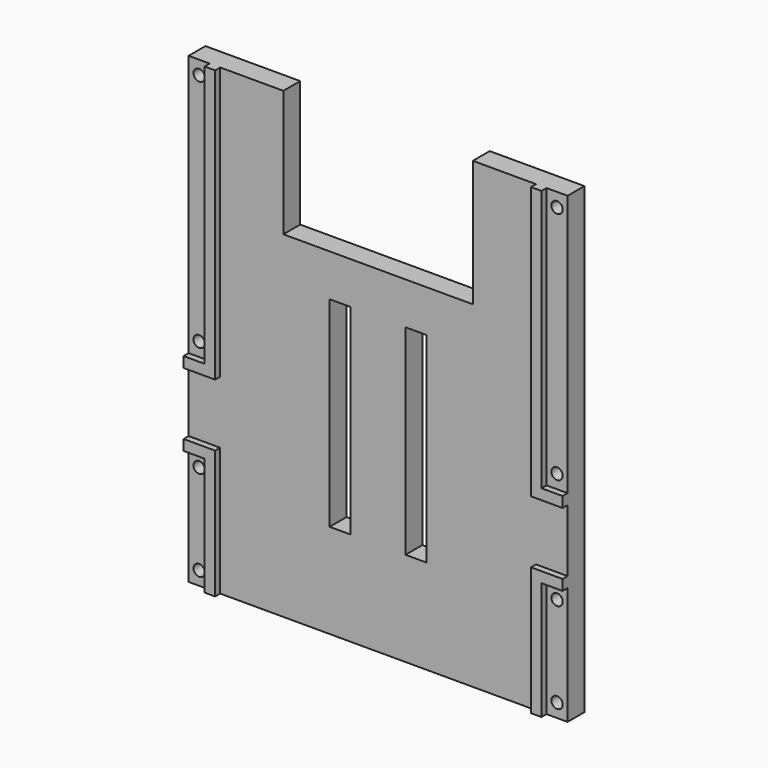
from build123d import *

# Parameters (mm, degrees)
F0_W     = 6.35
F0_H     = 78.9432
F0_R     = 1.7145
F0_H_2   = 35.56
F1_DEPTH = 6.35
F2_DEPTH = 8.255


with BuildPart() as f1:
    # F0 (on Front) → F1 (new body)
    with BuildSketch(Plane.XZ):
        with Locations((-53.975, 30.3784)):
            Rectangle(F0_W, F0_H)
        with Locations((-53.975, -4.9657)):
            Circle(F0_R, mode=Mode.SUBTRACT)
        with Locations((-53.975, 65.7225)):
            Circle(F0_R, mode=Mode.SUBTRACT)
        with Locations((-53.975, -52.07)):
            Rectangle(F0_W, F0_H_2)
        with Locations((-53.975, -65.7225)):
            Circle(F0_R, mode=Mode.SUBTRACT)
        with Locations((-53.975, -38.4175)):
            Circle(F0_R, mode=Mode.SUBTRACT)
        with Locations((53.975, -52.07)):
            Rectangle(F0_W, F0_H_2)
        with Locations((53.975, -65.7225)):
            Circle(F0_R, mode=Mode.SUBTRACT)
        with Locations((53.975, -38.4175)):
            Circle(F0_R, mode=Mode.SUBTRACT)
        with Locations((53.975, 30.3784)):
            Rectangle(F0_W, F0_H)
        with Locations((53.975, -4.9657)):
            Circle(F0_R, mode=Mode.SUBTRACT)
        with Locations((53.975, 65.7225)):
            Circle(F0_R, mode=Mode.SUBTRACT)
        Polygon((-47.625, -69.85), (47.625, -69.85), (47.625, -31.115), (57.15, -31.115), (57.15, -12.2682), (47.625, -12.2682), (47.625, 69.85), (28.575, 69.85), (28.575, 31.75), (-28.575, 31.75), (-28.575, 69.85), (-47.625, 69.85), (-47.625, -12.2682), (-57.15, -12.2682), (-57.15, -31.115), (-47.625, -31.115), align=None)
        Polygon((-14.605, 15.875), (-14.605, 19.05), (-8.255, 19.05), (-8.255, 15.875), (-8.255, -38.2016), (-8.255, -41.3766), (-14.605, -41.3766), (-14.605, -38.2016), align=None, mode=Mode.SUBTRACT)
        Polygon((8.255, 15.875), (8.255, 19.05), (14.605, 19.05), (14.605, 15.875), (14.605, -38.2016), (14.605, -41.3766), (8.255, -41.3766), (8.255, -38.2016), align=None, mode=Mode.SUBTRACT)
    extrude(amount=F1_DEPTH)

    # F0 (on Front) → F2 (join)
    with BuildSketch(Plane.XZ):
        Polygon((47.625, -12.2682), (57.15, -12.2682), (57.15, -9.0932), (50.8, -9.0932), (50.8, 69.85), (47.625, 69.85), align=None)
        Polygon((47.625, -69.85), (50.8, -69.85), (50.8, -34.29), (57.15, -34.29), (57.15, -31.115), (47.625, -31.115), align=None)
        Polygon((-57.15, -9.0932), (-57.15, -12.2682), (-47.625, -12.2682), (-47.625, 69.85), (-50.8, 69.85), (-50.8, -9.0932), align=None)
        Polygon((-50.8, -69.85), (-47.625, -69.85), (-47.625, -31.115), (-57.15, -31.115), (-57.15, -34.29), (-50.8, -34.29), align=None)
    extrude(amount=F2_DEPTH)


solid = f1.part
